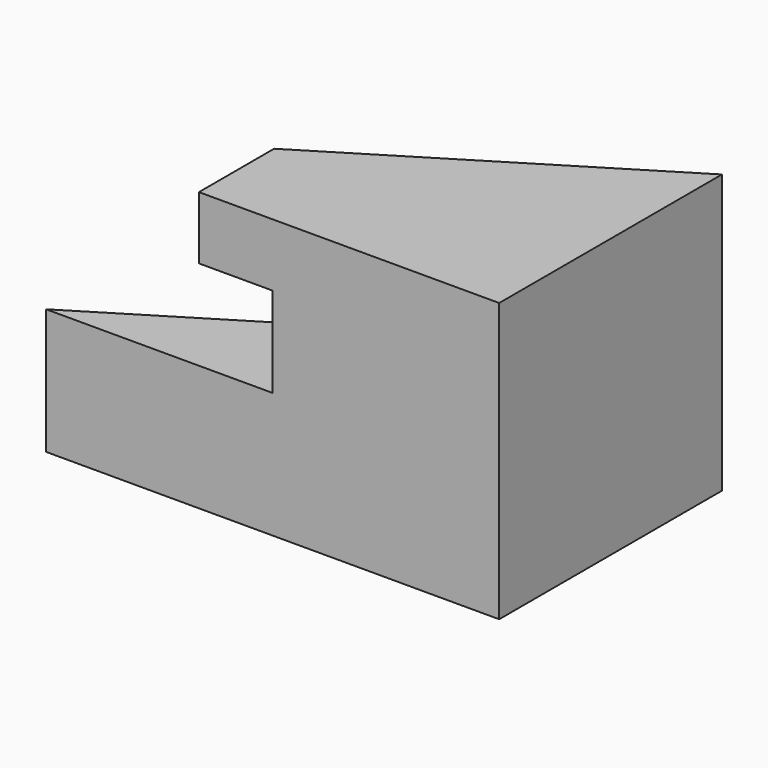
from build123d import *

# Parameters (mm, degrees)
F1_DEPTH      = 2.3
F1_DEPTH_BACK = 2.8
F2_DEPTH      = 2.3
F3_DEPTH      = 1.65


with BuildPart() as f1:
    # F0 (on Top) → F1 (new body, two sides)
    with BuildSketch(Plane.XY) as f1_sk:
        Polygon((-4.15, 0), (0, 0), (0, 5.1), (-4.15, 2.55), align=None)
        Polygon((-5.5, 0), (-4.15, 0), (-4.15, 2.55), (-5.5, 1.7204819277), align=None)
    extrude(amount=-F1_DEPTH)
    extrude(f1_sk.sketch, amount=F1_DEPTH_BACK)

    # F0 (on Top) → F2 (join)
    with BuildSketch(Plane.XY):
        Polygon((-8.3, 0), (-5.5, 0), (-5.5, 1.7204819277), align=None)
    extrude(amount=-F2_DEPTH)

    # F0 (on Top) → F3 (cut)
    with BuildSketch(Plane.XY):
        Polygon((-5.5, 0), (-4.15, 0), (-4.15, 2.55), (-5.5, 1.7204819277), align=None)
    extrude(amount=F3_DEPTH, mode=Mode.SUBTRACT)


solid = f1.part
